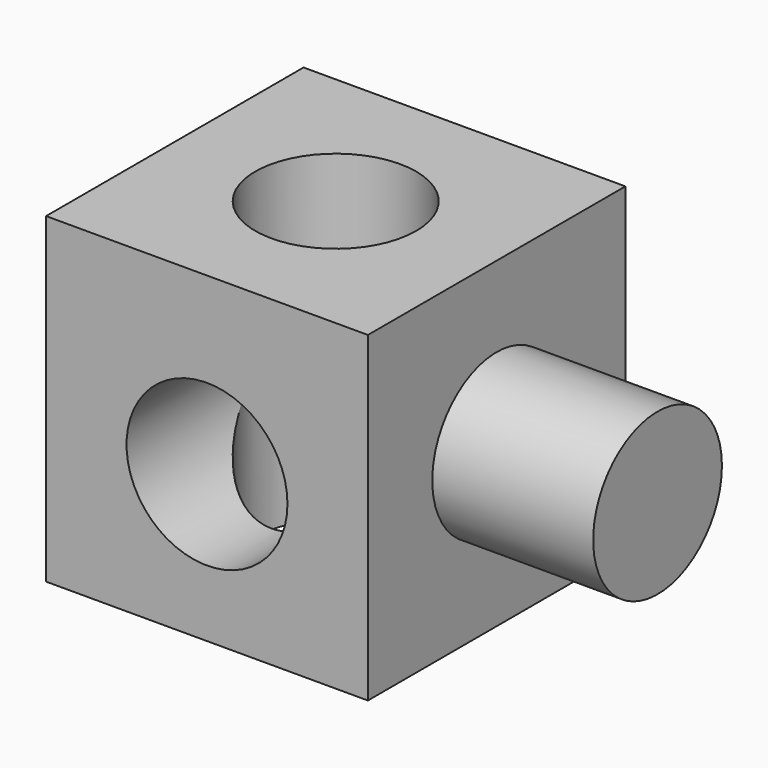
from build123d import *

# Parameters (mm, degrees)
F0_W     = 50.8
F0_H     = 50.8
F0_R     = 12.7
F1_DEPTH = 50.8
F2_R     = 12.7
F3_DEPTH = 25.4
F4_R     = 12.7
F5_DEPTH = 25.4


with BuildPart() as f1:
    # F0 (on Top) → F1 (new body)
    with BuildSketch(Plane.XY):
        Rectangle(F0_W, F0_H)
        Circle(F0_R, mode=Mode.SUBTRACT)
    extrude(amount=F1_DEPTH)

    # F2 (on face) → F3 (cut)
    with BuildSketch(Plane.XZ.offset(25.4)):
        with Locations((0, 23.192675)):
            Circle(F2_R)
    extrude(amount=-F3_DEPTH, mode=Mode.SUBTRACT)

    # F4 (on face) → F5 (join)
    with BuildSketch(Plane.YZ.offset(25.4)):
        with Locations((0, 25.4)):
            Circle(F4_R)
    extrude(amount=F5_DEPTH)


solid = f1.part
